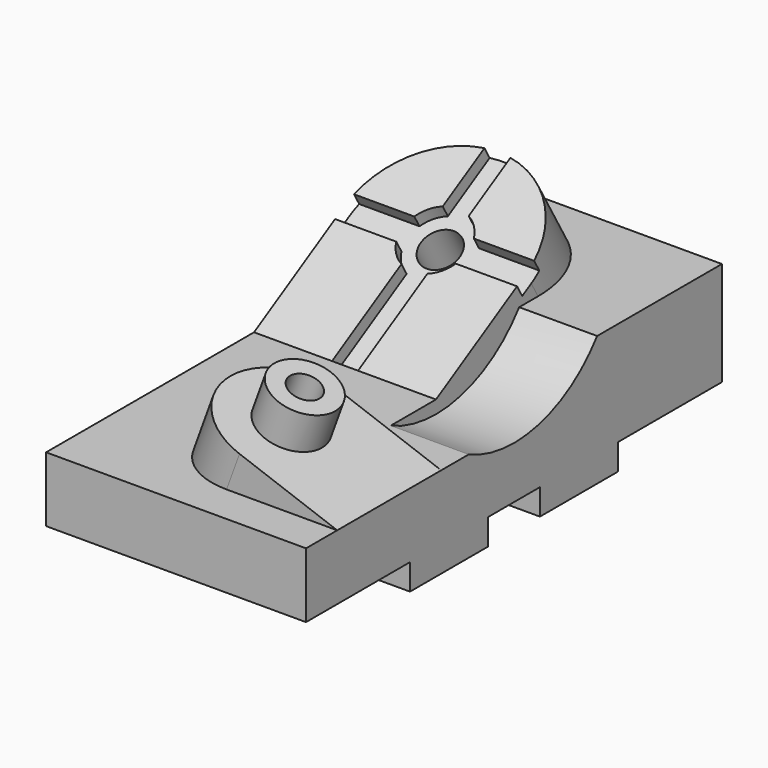
from build123d import *

# Parameters (mm, degrees)
F1_DEPTH  = 100
F4_DEPTH  = 25
F5_R      = 12.5
F6_DEPTH  = 15
F7_R      = 6
F8_DEPTH  = 82.0922560601
F12_DEPTH = 35
F14_DEPTH = 5
F15_R     = 7.5
F16_DEPTH = 75.3118891325
F17_W     = 30
F17_H     = 36.0725796032
F18_DEPTH = 15
F20_DEPTH = 30


with BuildPart() as f1:
    # F0 (on Right) → F1 (new body)
    with BuildSketch(Plane.YZ):
        Polygon((-8.4304039177, -10.4162054678), (-144.5029835209, -10.4162054678), (-144.5029835209, -35.4162054678), (-94.5029835209, -35.4162054678), (-94.5029835209, -45.4162054678), (-57.0029835209, -45.4162054678), (-57.0029835209, -35.4162054678), (-32.0029835209, -35.4162054678), (-32.0029835209, -45.4162054678), (5.4970164791, -45.4162054678), (5.4970164791, -35.4162054678), (55.4970164791, -35.4162054678), (55.4970164791, 4.5837945322), (-8.4304039177, 4.5837945322), align=None)
    extrude(amount=F1_DEPTH)

    # F3 (on face) → F4 (join)
    with BuildSketch(Plane(origin=(8.3500739367, 0, 22.9416395919), x_dir=(0.9396926208, 0, -0.3420201433), z_dir=(-0.3420201433, 0, -0.9396926208))):
        with BuildLine():
            Line((97.5318141656, 79.5029835209), (97.5318141656, 129.5029835209))
            Line((97.5318141656, 129.5029835209), (57.5318141656, 129.5029835209))
            ThreePointArc((57.5318141656, 129.5029835209), (32.5318141656, 104.5029835209), (57.5318141656, 79.5029835209))
            Line((57.5318141656, 79.5029835209), (97.5318141656, 79.5029835209))
        make_face()
    extrude(amount=F4_DEPTH)

    # F5 (on face) → F6 (join)
    with BuildSketch(Plane(origin=(8.3500739367, 0, 22.9416395919), x_dir=(0.9396926208, 0, -0.3420201433), z_dir=(0.3420201433, 0, 0.9396926208))):
        with Locations((57.5318141656, -104.5029835209)):
            Circle(F5_R)
    extrude(amount=F6_DEPTH)

    # F7 (on face) → F8 (cut, through all)
    with BuildSketch(Plane(origin=(13.4803760866, 0, 37.0370289037), x_dir=(0.9396926208, 0, -0.3420201433), z_dir=(0.3420201433, 0, 0.9396926208))):
        with Locations((57.5318141656, -104.5029835209)):
            Circle(F7_R)
    extrude(amount=-F8_DEPTH, mode=Mode.SUBTRACT)

    # F11 (on face) → F12 (join)
    with BuildSketch(Plane(origin=(0, -6.6153966071, 11.4582030358), x_dir=(1, 0, 0), z_dir=(0, 0.5, -0.8660254038))):
        with BuildLine():
            Line((70, 43.7488170072), (0, 43.7488170072))
            Line((0, 43.7488170072), (0, -6.2511829928))
            ThreePointArc((0, -6.2511829928), (35, -41.2511829928), (70, -6.2511829928))
            Line((70, -6.2511829928), (70, 43.7488170072))
        make_face()
    extrude(amount=F12_DEPTH)

    # F13 (on face) → F14 (cut)
    with BuildSketch(Plane(origin=(0, -6.6153966071, 11.4582030358), x_dir=(1, 0, 0), z_dir=(0, -0.5, 0.8660254038))):
        with BuildLine():
            Line((0, 6.2511829928), (0, 1.2511829928))
            Line((0, 1.2511829928), (23.5435607626, 1.2511829928))
            ThreePointArc((23.5435607626, 1.2511829928), (26.1611649765, -2.5876515134), (29.9999993294, -5.2052559519))
            Line((29.9999993294, -5.2052559519), (29.9999993294, -43.7488170072))
            Line((29.9999993294, -43.7488170072), (40, -43.7488170072))
            Line((40, -43.7488170072), (40, -5.2052562446))
            ThreePointArc((40, -5.2052562446), (43.8388347648, -2.587651772), (46.4564392374, 1.2511829928))
            Line((46.4564392374, 1.2511829928), (69.6410161514, 1.2511829928))
            Line((69.6410161514, 1.2511829928), (70, 1.2511829928))
            Line((70, 1.2511829928), (70, 6.2511829928))
            ThreePointArc((70, 6.2511829928), (69.9101387049, 8.7576178316), (69.6410162514, 11.2511823001))
            Line((69.641016252, 11.2511822954), (46.4564395418, 11.2511822954))
            ThreePointArc((46.4564395418, 11.2511822954), (43.8388350339, 15.0900174886), (40, 17.7076222302))
            Line((40, 17.7076222302), (40, 40.8921991442))
            ThreePointArc((40, 40.8921991442), (34.9999996612, 41.2511829928), (29.9999993294, 40.8921990474))
            Line((29.9999993294, 40.8921990474), (29.9999993294, 17.7076219375))
            ThreePointArc((29.9999993294, 17.7076219375), (26.1611647075, 15.0900172299), (23.5435604582, 11.2511822954))
            Line((23.5435604582, 11.2511822954), (0.358983748, 11.2511822954))
            ThreePointArc((0.358983748, 11.2511822954), (0.0898612949, 8.7576178292), (0, 6.2511829928))
        make_face()
    extrude(amount=-F14_DEPTH, mode=Mode.SUBTRACT)

    # F15 (on face) → F16 (cut, through all)
    with BuildSketch(Plane(origin=(0, -4.1153966071, 7.1280760169), x_dir=(1, 0, 0), z_dir=(0, -0.5, 0.8660254038))):
        with Locations((35, 6.2511829928)):
            Circle(F15_R)
    extrude(amount=-F16_DEPTH, mode=Mode.SUBTRACT)

    # F17 (on face) → F18 (join, through all)
    with BuildSketch(Plane.XY.offset(-10.4162054678)):
        with Locations((85, -26.4666937193)):
            Rectangle(F17_W, F17_H)
    extrude(amount=F18_DEPTH)

    # F19 (on face) → F20 (cut, through all)
    with BuildSketch(Plane.YZ.offset(100)):
        with BuildLine():
            Line((-52.0994231178, 84.0033666211), (-74.2503204032, -5.6044618173))
            ThreePointArc((-74.2503204032, -5.6044618173), (-70.3859570829, -8.1955425313), (-66.2974782386, -10.4162054678))
            Line((-66.2974782386, -10.4162054678), (-44.5029835209, -10.4162054678))
            Line((-44.5029835209, -10.4162054678), (-44.5029835209, 4.5837945322))
            Line((-44.5029835209, 4.5837945322), (-4.5029835209, 4.5837945322))
            ThreePointArc((-4.5029835209, 4.5837945322), (-1.6151671928, 60.286619486), (-52.0994231178, 84.0033666211))
        make_face()
        with BuildLine():
            Line((-44.5029835209, -10.4162054678), (-66.2974782386, -10.4162054678))
            ThreePointArc((-66.2974782386, -10.4162054678), (-32.7084888032, -14.0051949032), (-4.5029835209, 4.5837945322))
            Line((-4.5029835209, 4.5837945322), (-44.5029835209, 4.5837945322))
            Line((-44.5029835209, 4.5837945322), (-44.5029835209, -10.4162054678))
        make_face()
    extrude(amount=-F20_DEPTH, mode=Mode.SUBTRACT)


solid = f1.part
